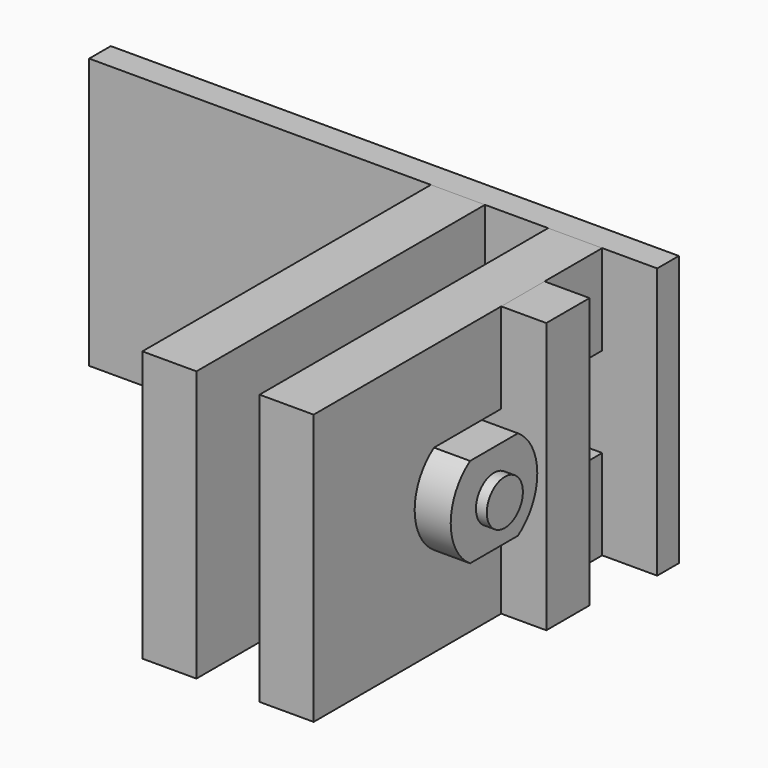
from build123d import *

# Parameters (mm, degrees)
F1_DEPTH  = 15
F2_R      = 2.5
F3_DEPTH  = 1.2
F4_W      = 12
F4_H      = 10
F5_DEPTH  = 9.1
F6_R      = 2
F7_DEPTH  = 0.7
F9_DEPTH  = 9.2
F12_DEPTH = 6
F13_W     = 63
F13_H     = 30
F14_DEPTH = 3
F17_DEPTH = 6
F19_DEPTH = 6


with BuildPart() as f1:
    # F0 (on Right) → F1 (new body)
    with BuildSketch(Plane.YZ):
        with BuildLine():
            Line((-3.316625, -5), (3.316625, -5))
            ThreePointArc((3.316625, -5), (6, 0), (3.316625, 5))
            Line((3.316625, 5), (-3.316625, 5))
            ThreePointArc((-3.316625, 5), (-6, 0), (-3.316625, -5))
        make_face()
    extrude(amount=F1_DEPTH)

    # F2 (on face) → F3 (join)
    with BuildSketch(Plane.YZ.offset(15)):
        Circle(F2_R)
    extrude(amount=F3_DEPTH)

    # F4 (on face) → F5 (join)
    with BuildSketch(Plane(origin=(0, 0, 0), x_dir=(0, -1, 0), z_dir=(-1, 0, 0))):
        Rectangle(F4_W, F4_H)
    extrude(amount=F5_DEPTH)

    # F6 (on face) → F7 (join)
    with BuildSketch(Plane(origin=(-9.1, 0, 0), x_dir=(0, -1, 0), z_dir=(-1, 0, 0))):
        Circle(F6_R)
    extrude(amount=F7_DEPTH)

    # F8 (on face) → F9 (join)
    with BuildSketch(Plane(origin=(-9.8, 0, 0), x_dir=(0, -1, 0), z_dir=(-1, 0, 0))):
        with BuildLine():
            Line((0.97, -1.144159), (0.97, 1.144159))
            ThreePointArc((0.97, 1.144159), (-1.5, 0), (0.97, -1.144159))
        make_face()
    extrude(amount=F9_DEPTH)


with BuildPart() as f12:
    # F11 (on offset) → F12 (new body)
    with BuildSketch(Plane.YZ.offset(5)):
        with BuildLine():
            Line((-3.316625, 5), (3.316625, 5))
            Line((3.316625, 5), (20, 5))
            Line((20, 5), (20, 15))
            Line((20, 15), (-20, 15))
            Line((-20, 15), (-20, -15))
            Line((-20, -15), (20, -15))
            Line((20, -15), (20, -5))
            Line((20, -5), (3.316625, -5))
            Line((3.316625, -5), (-3.316625, -5))
            ThreePointArc((-3.316625, -5), (-6, 0), (-3.316625, 5))
        make_face()
    extrude(amount=F12_DEPTH)


with BuildPart() as f14:
    # F13 (on face) → F14 (new body)
    with BuildSketch(Plane(origin=(0, 20, 0), x_dir=(-1, 0, 0), z_dir=(0, 1, 0))):
        with Locations((14.4, 0)):
            Rectangle(F13_W, F13_H)
    extrude(amount=F14_DEPTH)


with BuildPart() as f17:
    # F16 (on offset) → F17 (new body)
    with BuildSketch(Plane.YZ.offset(-2)):
        Polygon((20, -5), (6, -5), (-3.316625, -5), (-6, -5), (-6, 5), (-3.316625, 5), (6, 5), (20, 5), (20, 15), (-20, 15), (-20, -15), (20, -15), align=None)
    extrude(amount=-F17_DEPTH)


with BuildPart() as f19:
    # F18 (on face) → F19 (new body)
    with BuildSketch(Plane(origin=(0, 6, 0), x_dir=(-1, 0, 0), z_dir=(0, 1, 0))):
        Polygon((8, -5), (8, 5), (-11, 5), (-11, 15), (-16, 15), (-16, -15), (-11, -15), (-11, -5), align=None)
    extrude(amount=F19_DEPTH)


solid = Compound([f1.part, f12.part, f14.part, f17.part, f19.part])
